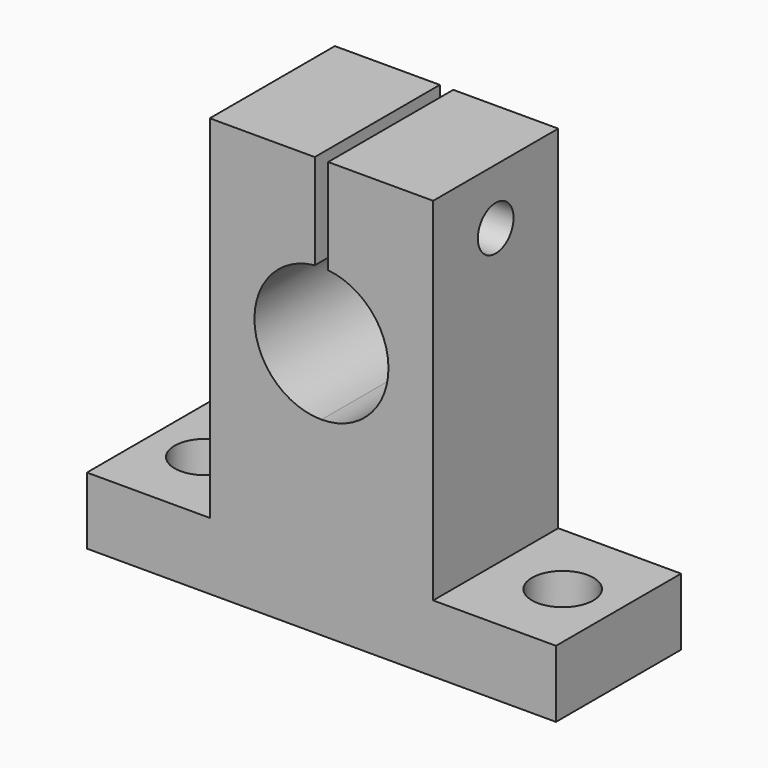
from build123d import *

# Parameters (mm, degrees)
OBJ1_R                     = 2.75
OBJ1_DEPTH                 = 8
OBJ2                     = 2.75
OBJ3                 = 8
OBJ4_PLACEMENT_ANGLE        = 90
TBOLT_SHAFT_R                    = 2
TBOLT_SHAFT_DEPTH                = 22
TBOLT_SHAFT_ROLL_ANGLE           = 90
UP_SEP_W                         = 16
UP_SEP_H                         = 1.2
UP_SEP_DEPTH                     = 15.5
SHAFT_HOLE_R                     = 6
SHAFT_HOLE_DEPTH                 = 16
SHAFT_HOLE_PITCH_ANGLE           = 90
TBOLT_HEAD_R                     = 3.85
TBOLT_HEAD_DEPTH                 = 5.4
TBOLT_HEAD_ROLL_ANGLE            = 90
SIDE_BOX_L_W                     = 14
SIDE_BOX_L_H                     = 11
SIDE_BOX_L_DEPTH                 = 31.5
SIDE_BOX_R_W                     = 14
SIDE_BOX_R_H                     = 11
SIDE_BOX_R_DEPTH                 = 31.5
TOTAL_BOX_W                      = 14
TOTAL_BOX_H                      = 42
TOTAL_BOX_DEPTH                  = 37.5
SK_SHAPE_W_HOLES_PLACEMENT_ANGLE = 90


with BuildPart() as obj1:
    # obj1 → obj1 (new body)
    with BuildSketch(Plane(origin=(7, -16, -1), x_dir=(1, 0, 0), z_dir=(0, 0, 1))):
        Circle(OBJ1_R)
    extrude(amount=OBJ1_DEPTH)


with BuildPart() as obj4:
    with BuildSketch(Plane(origin=(7, 16, -1), x_dir=(1, 0, 0), z_dir=(0, 0, 1))):
        Circle(OBJ2)
    extrude(amount=OBJ3)

    # obj4: union obj1
    add(obj1.part)


with BuildPart() as obj4_1:
    # obj4 placement: moved
    add(obj4.part.moved(Location((0, -7, 0))).rotate(Axis((0, -7, 0), (0, 0, 1)), OBJ4_PLACEMENT_ANGLE))


with BuildPart() as tbolt_shaft:
    # tbolt_shaft → tbolt_shaft (new body)
    with BuildSketch(Plane.XY):
        Circle(TBOLT_SHAFT_R)
    extrude(amount=TBOLT_SHAFT_DEPTH)


with BuildPart() as tbolt_shaft_1:
    # tbolt_shaft roll: moved
    add(tbolt_shaft.part.rotate(Axis((0, 0, 0), (1, 0, 0)), TBOLT_SHAFT_ROLL_ANGLE))


with BuildPart() as tbolt_shaft_2:
    # tbolt_shaft placement: moved
    add(tbolt_shaft_1.part.moved(Location((7, 11, 32.5))))


with BuildPart() as up_sep:
    # up_sep → up_sep (new body)
    with BuildSketch(Plane(origin=(-1, -0.6, 24), x_dir=(1, 0, 0), z_dir=(0, 0, 1))):
        with Locations((8, 0.6)):
            Rectangle(UP_SEP_W, UP_SEP_H)
    extrude(amount=UP_SEP_DEPTH)


with BuildPart() as shaft_hole:
    # shaft_hole → shaft_hole (new body)
    with BuildSketch(Plane.XY):
        Circle(SHAFT_HOLE_R)
    extrude(amount=SHAFT_HOLE_DEPTH)


with BuildPart() as shaft_hole_1:
    # shaft_hole pitch: moved
    add(shaft_hole.part.rotate(Axis((0, 0, 0), (0, 1, 0)), SHAFT_HOLE_PITCH_ANGLE))


with BuildPart() as shaft_hole_2:
    # shaft_hole placement: moved
    add(shaft_hole_1.part.moved(Location((-1, 0, 23))))


with BuildPart() as fuse_shaft_holes:
    # tbolt_head → tbolt_head (new body)
    with BuildSketch(Plane.XY):
        Circle(TBOLT_HEAD_R)
    extrude(amount=TBOLT_HEAD_DEPTH)


with BuildPart() as fuse_shaft_holes_1:
    # tbolt_head roll: moved
    add(fuse_shaft_holes.part.rotate(Axis((0, 0, 0), (1, 0, 0)), TBOLT_HEAD_ROLL_ANGLE))


with BuildPart() as fuse_shaft_holes_2:
    # tbolt_head placement: moved
    add(fuse_shaft_holes_1.part.moved(Location((7, 11, 32.5))))

    # fuse_shaft_holes: union tbolt_shaft, up_sep, shaft_hole
    add(tbolt_shaft_2.part)
    add(up_sep.part)
    add(shaft_hole_2.part)


with BuildPart() as side_box_l:
    # side_box_l → side_box_l (new body)
    with BuildSketch(Plane(origin=(0, -21, 6), x_dir=(1, 0, 0), z_dir=(0, 0, 1))):
        with Locations((7, 5.5)):
            Rectangle(SIDE_BOX_L_W, SIDE_BOX_L_H)
    extrude(amount=SIDE_BOX_L_DEPTH)


with BuildPart() as side_boxes:
    # side_box_r → side_box_r (new body)
    with BuildSketch(Plane(origin=(0, 10, 6), x_dir=(1, 0, 0), z_dir=(0, 0, 1))):
        with Locations((7, 5.5)):
            Rectangle(SIDE_BOX_R_W, SIDE_BOX_R_H)
    extrude(amount=SIDE_BOX_R_DEPTH)

    # side_boxes: union side_box_l
    add(side_box_l.part)


with BuildPart() as obj5:
    # total_box → total_box (new body)
    with BuildSketch(Plane(origin=(0, -21, 0), x_dir=(1, 0, 0), z_dir=(0, 0, 1))):
        with Locations((7, 21)):
            Rectangle(TOTAL_BOX_W, TOTAL_BOX_H)
    extrude(amount=TOTAL_BOX_DEPTH)

    # sk_shape: cut side_boxes
    add(side_boxes.part, mode=Mode.SUBTRACT)

    # sk_shape_w_holes: cut fuse_shaft_holes
    add(fuse_shaft_holes_2.part, mode=Mode.SUBTRACT)


with BuildPart() as obj5_1:
    # sk_shape_w_holes placement: moved
    add(obj5.part.moved(Location((0, -7, 0))).rotate(Axis((0, -7, 0), (0, 0, 1)), SK_SHAPE_W_HOLES_PLACEMENT_ANGLE))

    # sk12_fr: cut obj4
    add(obj4_1.part, mode=Mode.SUBTRACT)


with BuildPart() as obj5_2:
    # sk12_fr placement: moved
    add(obj5_1.part.moved(Location((96.9, 286, 30))))


with BuildPart() as obj5_3:
    # Clone016 placement: moved
    add(obj5_2.part.moved(Location((-193.8, 534, 0))))


solid = obj5_3.part
